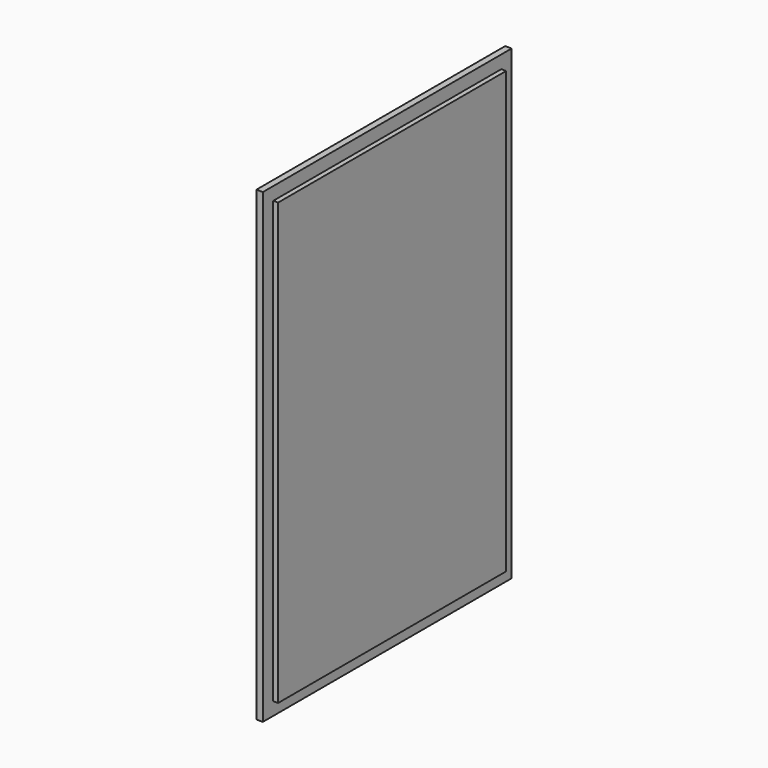
from build123d import *

# Parameters (mm, degrees)
F0_W     = 304.8
F0_H     = 457.2
F1_DEPTH = 19.05
F2_W     = 4.7625
F2_H     = 12.7
F3_DEPTH = 457.201
F4_W     = 4.7625
F4_H     = 12.7
F5_DEPTH = 304.801


with BuildPart() as f1:
    # F0 (on Right) → F1 (new body)
    with BuildSketch(Plane.YZ):
        with Locations((-152.4, 228.6)):
            Rectangle(F0_W, F0_H)
    extrude(amount=F1_DEPTH)

    # F2 (on face) → F3 (cut, through all)
    with BuildSketch(Plane(origin=(0, 0, 0), x_dir=(1, 0, 0), z_dir=(0, 0, -1))):
        with Locations((16.66875, 6.35)):
            Rectangle(F2_W, F2_H)
        with Locations((16.66875, 298.45)):
            Rectangle(F2_W, F2_H)
        with BuildLine():
            Line((0, 0), (7.9375, 0))
            Line((7.9375, 0), (7.9375, 12.7))
            ThreePointArc((7.9375, 12.7), (6.046964, 44.709777), (0, 76.2))
            Line((0, 76.2), (0, 0))
        make_face()
        with BuildLine():
            Line((0, 304.8), (0, 228.6))
            ThreePointArc((0, 228.6), (6.046964, 260.090223), (7.9375, 292.1))
            Line((7.9375, 292.1), (7.9375, 304.8))
            Line((7.9375, 304.8), (0, 304.8))
        make_face()
    extrude(amount=-F3_DEPTH, mode=Mode.SUBTRACT)

    # F4 (on face) → F5 (cut, through all)
    with BuildSketch(Plane(origin=(0, 0, 0), x_dir=(-1, 0, 0), z_dir=(0, 1, 0))):
        with BuildLine():
            Line((0, 457.2), (-7.9375, 457.2))
            Line((-7.9375, 457.2), (-7.9375, 444.5))
            ThreePointArc((-7.9375, 444.5), (-5.945434, 412.502915), (0, 381))
            Line((0, 381), (0, 457.2))
        make_face()
        with BuildLine():
            Line((-7.9375, 12.7), (-7.9375, 0))
            Line((-7.9375, 0), (0, 0))
            Line((0, 0), (0, 76.2))
            ThreePointArc((0, 76.2), (-5.945434, 44.697085), (-7.9375, 12.7))
        make_face()
        with Locations((-16.66875, 450.85)):
            Rectangle(F4_W, F4_H)
        with Locations((-16.66875, 6.35)):
            Rectangle(F4_W, F4_H)
    extrude(amount=-F5_DEPTH, mode=Mode.SUBTRACT)


solid = f1.part
